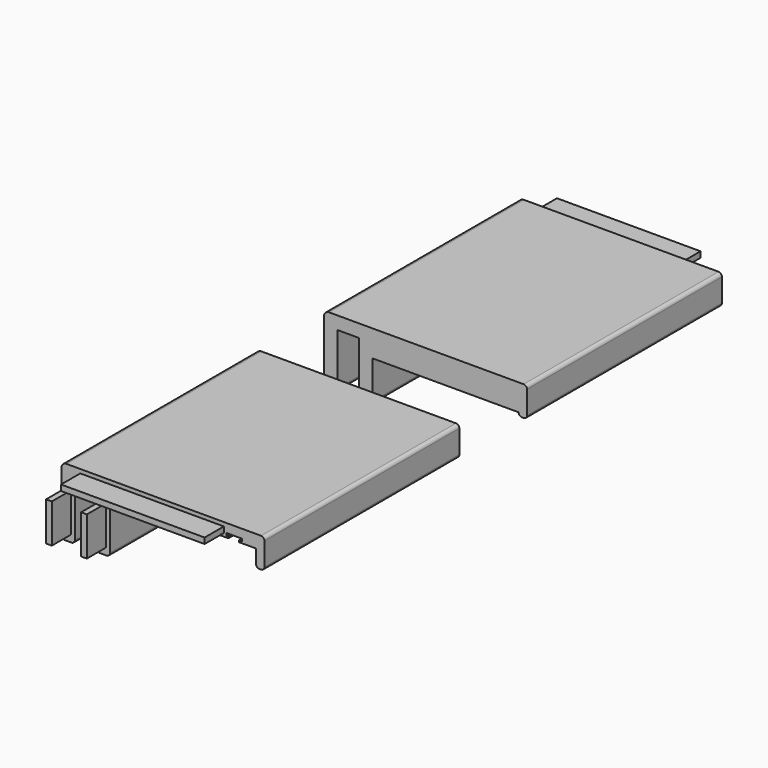
from build123d import *

# Parameters (mm, degrees)
F1_DEPTH = 144
F2_W     = 84.85
F2_H     = 3.4
F2_W_2   = 3.4
F2_H_2   = 23
F3_DEPTH = 14.2
F5_DEPTH = 2
F7_DEPTH = 8


with BuildPart() as f1:
    # F0 (on Front) → F1 (new body)
    with BuildSketch(Plane.XZ):
        with BuildLine():
            Line((0, 37), (0, 2))
            ThreePointArc((0, 2), (0.5857864376, 0.5857864376), (2, 0))
            Line((2, 0), (6, 0))
            ThreePointArc((6, 0), (7.4142135624, 0.5857864376), (8, 2))
            Line((8, 2), (8, 32.406905199))
            Line((8, 32.406905199), (20.7, 32.406905199))
            Line((20.7, 32.406905199), (20.7, 2))
            ThreePointArc((20.7, 2), (21.2857864376, 0.5857864376), (22.7, 0))
            Line((22.7, 0), (26.7, 0))
            ThreePointArc((26.7, 0), (28.1142135624, 0.5857864376), (28.7, 2))
            Line((28.7, 2), (28.7, 32.406905199))
            Line((28.7, 32.406905199), (98.7, 32.406905199))
            Line((98.7, 32.406905199), (98.7, 33.406905199))
            Line((98.7, 33.406905199), (97.45, 33.406905199))
            Line((97.45, 33.406905199), (97.45, 34.806905199))
            Line((97.45, 34.806905199), (106.75, 34.806905199))
            Line((106.75, 34.806905199), (106.75, 33.406905199))
            Line((106.75, 33.406905199), (105, 33.406905199))
            Line((105, 33.406905199), (105, 32.406905199))
            Line((105, 32.406905199), (115, 32.406905199))
            Line((115, 32.406905199), (120, 32.406905199))
            Line((120, 32.406905199), (120, 38))
            ThreePointArc((120, 38), (119.4142135624, 39.4142135624), (118, 40))
            Line((118, 40), (3, 40))
            ThreePointArc((3, 40), (0.8786796564, 39.1213203436), (0, 37))
        make_face()
        with BuildLine():
            Line((120, 24.406905199), (120, 32.406905199))
            Line((120, 32.406905199), (115, 32.406905199))
            Line((115, 32.406905199), (115, 24.406905199))
            ThreePointArc((115, 24.406905199), (115.5857864376, 22.9926916366), (117, 22.406905199))
            Line((117, 22.406905199), (118, 22.406905199))
            ThreePointArc((118, 22.406905199), (119.4142135624, 22.9926916366), (120, 24.406905199))
        make_face()
    extrude(amount=F1_DEPTH)

    # F2 (on face) → F3 (join)
    with BuildSketch(Plane.XZ.offset(144)):
        with Locations((53.575, 36)):
            Rectangle(F2_W, F2_H)
        with Locations((4, 15.6)):
            Rectangle(F2_W_2, F2_H_2)
        with Locations((24.7, 15.6)):
            Rectangle(F2_W_2, F2_H_2)
    extrude(amount=F3_DEPTH)

    # F4 (on face) → F5 (join)
    with BuildSketch(Plane(origin=(0, 0, 0), x_dir=(-1, 0, 0), z_dir=(0, 1, 0))):
        Polygon((-105, 33.406905199), (-105, 32.406905199), (-98.7, 32.406905199), (-98.7, 33.406905199), (-97.45, 33.406905199), (-97.45, 34.806905199), (-106.75, 34.806905199), (-106.75, 33.406905199), align=None)
    extrude(amount=-F5_DEPTH)

    # F6 (on face) → F7 (join, through all)
    with BuildSketch(Plane(origin=(0, 0, 32.406905199), x_dir=(1, 0, 0), z_dir=(0, 0, -1))):
        Polygon((28.7, 0), (115, 0), (115, 2), (105, 2), (98.7, 2), (28.7, 2), align=None)
    extrude(amount=F7_DEPTH)


with BuildPart() as f9_1:
    # F9: instance of F1
    add(f1.part.mirror(Plane.XZ.offset(-25)))


solid = Compound([f1.part, f9_1.part])
